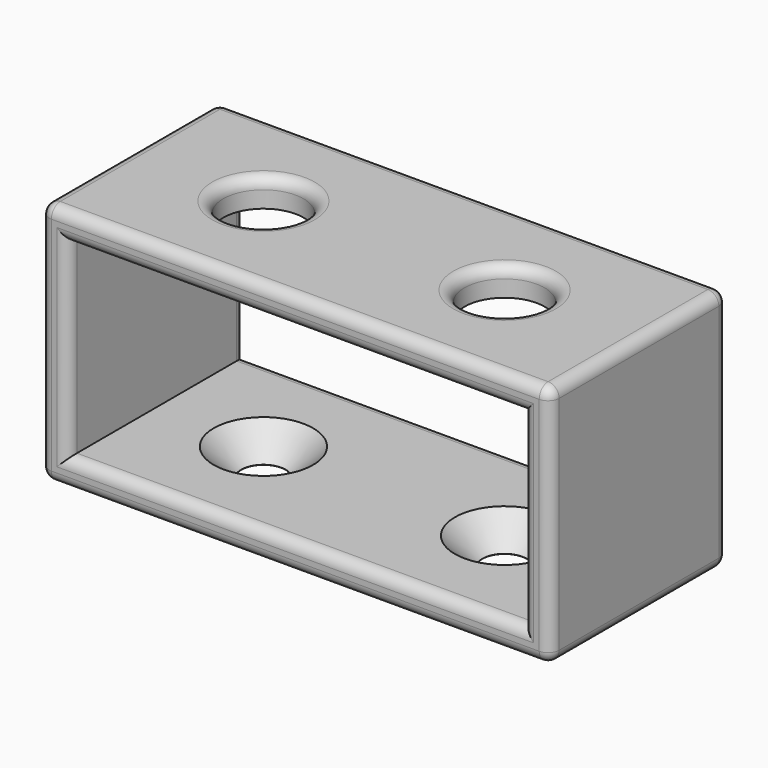
from build123d import *

# Parameters (mm, degrees)
SKETCH_W          = 46
SKETCH_H          = 22
PAD_DEPTH         = 20
SKETCH001_W       = 41
SKETCH001_H       = 17
POCKET_DEPTH      = 0.001
POCKET_DEPTH_BACK = 20.001
SKETCH002_R       = 3.62
POCKET001_DEPTH   = 3.5
SKETCH003_R       = 2
POCKET002_DEPTH   = 2.5
CHAMFER_SIZE      = 2.485
FILLET_R          = 1


with BuildPart() as part:
    # Sketch → Pad (new body)
    with BuildSketch(Plane.XZ):
        Rectangle(SKETCH_W, SKETCH_H)
    extrude(amount=PAD_DEPTH)

    # Sketch001 → Pocket (cut, two sides)
    with BuildSketch(Plane.XZ) as pocket_sk:
        Rectangle(SKETCH001_W, SKETCH001_H)
    extrude(amount=-POCKET_DEPTH, mode=Mode.SUBTRACT)
    extrude(pocket_sk.sketch, amount=POCKET_DEPTH_BACK, mode=Mode.SUBTRACT)

    # Sketch002 (on DatumPlane) → Pocket001 (cut)
    with BuildSketch(Plane(origin=(0, 0, 11), x_dir=(-1, 0, 0), z_dir=(0, 0, 1))):
        with Locations((-10.875, 10)):
            Circle(SKETCH002_R)
        with Locations((10.875, 10)):
            Circle(SKETCH002_R)
    extrude(amount=-POCKET001_DEPTH, mode=Mode.SUBTRACT)

    # Sketch003 (on DatumPlane) → Pocket002 (cut)
    with BuildSketch(Plane(origin=(0, 0, -8.5), x_dir=(-1, 0, 0), z_dir=(0, 0, 1))):
        with Locations((-10.875, 10)):
            Circle(SKETCH003_R)
        with Locations((10.875, 10)):
            Circle(SKETCH003_R)
    extrude(amount=-POCKET002_DEPTH, mode=Mode.SUBTRACT)

    # Chamfer
    chamfer_edges = [part.edges().sort_by_distance(p)[0] for p in [
        (-8.875, -10, -8.5),
        (12.875, -10, -8.5),
    ]]
    chamfer(chamfer_edges, length=CHAMFER_SIZE)

    # Fillet
    fillet_edges = [part.edges().sort_by_distance(p)[0] for p in [
        (-23, -20, 0),
        (0, -20, 11),
        (0, -20, -11),
        (23, -20, 0),
        (-20.5, -20, 0),
        (0, -20, 8.5),
        (20.5, -20, 0),
        (0, -20, -8.5),
        (-23, 0, 0),
        (0, 0, 11),
        (0, 0, -11),
        (23, 0, 0),
        (-20.5, 0, 0),
        (0, 0, 8.5),
        (20.5, 0, 0),
        (0, 0, -8.5),
        (23, -10, 11),
        (23, -10, -11),
        (-23, -10, -11),
        (-23, -10, 11),
        (-7.255, -10, 11),
        (14.495, -10, 11),
    ]]
    fillet(fillet_edges, radius=FILLET_R)


solid = part.part
